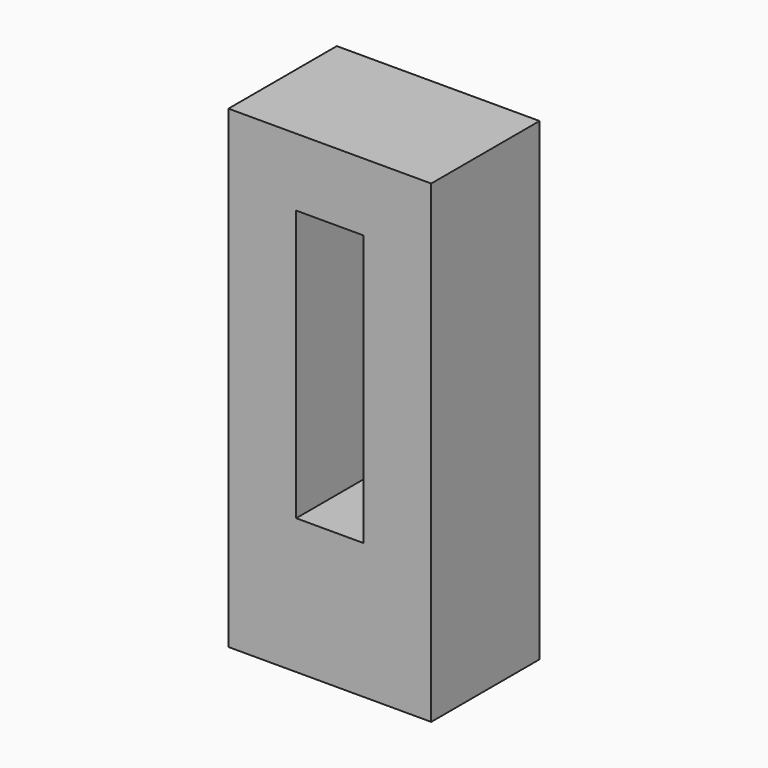
from build123d import *

# Parameters (mm, degrees)
F0_W     = 12.7
F0_H     = 50.8
F1_DEPTH = 25.4


with BuildPart() as f1:
    # F0 (on Front) → F1 (new body)
    with BuildSketch(Plane.XZ):
        Polygon((-80.300115, 9.361282), (-80.300115, -3.338718), (-67.600115, -3.338718), (-54.970883, -3.338718), (-54.900115, -3.338718), (-42.270883, -3.338718), (-42.270883, 9.361282), (-54.900115, 9.361282), (-67.600115, 9.361282), align=None)
        with Locations((-73.950115, -28.738718)):
            Rectangle(F0_W, F0_H)
        Polygon((-54.970883, -3.338718), (-54.970883, -54.138718), (-42.270883, -54.138718), (-42.270883, -3.338718), (-54.900115, -3.338718), align=None)
        Polygon((-67.600115, -54.138718), (-80.300115, -54.138718), (-80.300115, -79.538718), (-42.270883, -79.538718), (-42.270883, -54.138718), (-54.970883, -54.138718), align=None)
    extrude(amount=F1_DEPTH)


solid = f1.part
